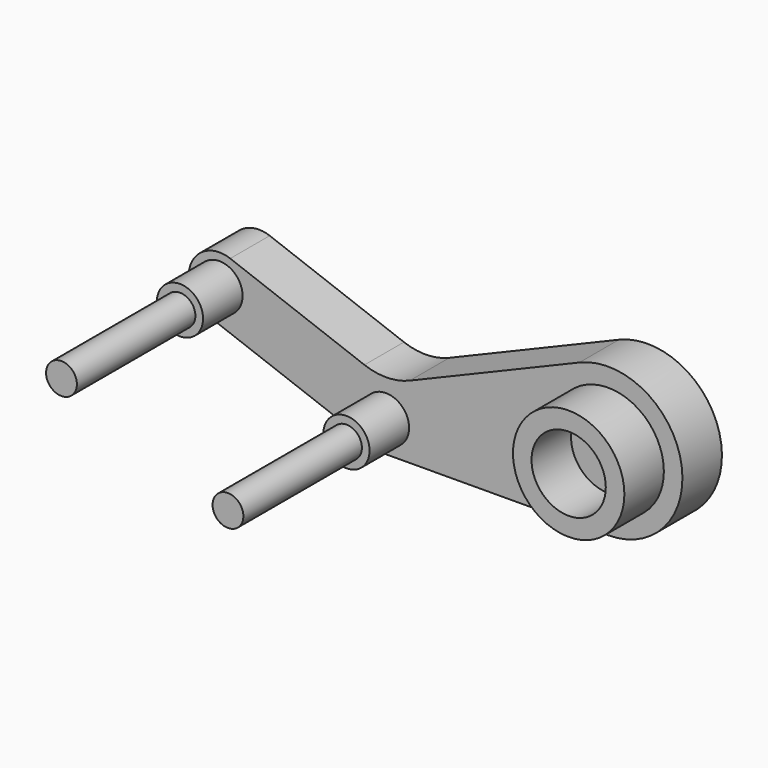
from build123d import *

# Parameters (mm, degrees)
F0_R     = 2.9718
F0_R_2   = 7.1628
F0_R_3   = 1.9812
F0_R_4   = 4.7752
F1_DEPTH = 6.35
F2_DEPTH = 6.35
F3_DEPTH = 25.4


with BuildPart() as f1:
    # F0 (on Front) → F1 (new body)
    with BuildSketch(Plane.XZ):
        with BuildLine():
            Line((-2.766164, 5.258687), (-20.029118, 11.688779))
            ThreePointArc((-20.029118, 11.688779), (-25.125379, 9.358682), (-22.795282, 4.262421))
            Line((-22.795282, 4.262421), (-1.383082, -3.713179))
            ThreePointArc((-1.383082, -3.713179), (-0.694015, -3.901148), (0.017603, -3.962361))
            Line((0.017603, -3.962361), (28.617427, -3.835306))
            ThreePointArc((28.617427, -3.835306), (37.933712, 7.618851), (24.882816, 14.522833))
            Line((24.882816, 14.522833), (3.063727, 5.376418))
            ThreePointArc((3.063727, 5.376418), (0.160003, 4.76186), (-2.766164, 5.258687))
        make_face()
        Circle(F0_R, mode=Mode.SUBTRACT)
        with Locations((-21.4122, 7.9756)):
            Circle(F0_R, mode=Mode.SUBTRACT)
        with Locations((28.575, 5.715)):
            Circle(F0_R_2, mode=Mode.SUBTRACT)
        with Locations((-21.4122, 7.9756)):
            Circle(F0_R)
        with Locations((-21.4122, 7.9756)):
            Circle(F0_R_3, mode=Mode.SUBTRACT)
        with Locations((-21.4122, 7.9756)):
            Circle(F0_R_3)
        Circle(F0_R)
        Circle(F0_R_3, mode=Mode.SUBTRACT)
        Circle(F0_R_3)
        with Locations((28.575, 5.715)):
            Circle(F0_R_2)
        with Locations((28.575, 5.715)):
            Circle(F0_R_4, mode=Mode.SUBTRACT)
        with Locations((28.575, 5.715)):
            Circle(F0_R_4)
    extrude(amount=-F1_DEPTH)

    # F0 (on Front) → F2 (join)
    with BuildSketch(Plane.XZ):
        with Locations((-21.4122, 7.9756)):
            Circle(F0_R)
        with Locations((-21.4122, 7.9756)):
            Circle(F0_R_3, mode=Mode.SUBTRACT)
        Circle(F0_R)
        Circle(F0_R_3, mode=Mode.SUBTRACT)
        with Locations((28.575, 5.715)):
            Circle(F0_R_2)
        with Locations((28.575, 5.715)):
            Circle(F0_R_4, mode=Mode.SUBTRACT)
    extrude(amount=F2_DEPTH)

    # F0 (on Front) → F3 (join)
    with BuildSketch(Plane.XZ):
        with Locations((-21.4122, 7.9756)):
            Circle(F0_R_3)
        Circle(F0_R_3)
    extrude(amount=F3_DEPTH)


solid = f1.part
